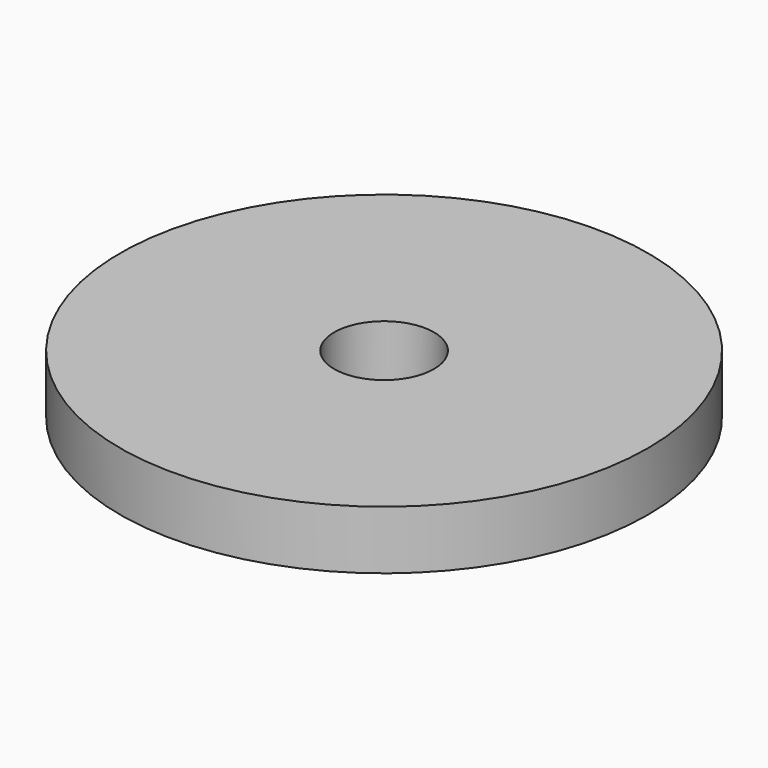
from build123d import *

# Parameters (mm, degrees)
CYLINDER007_R     = 1.7
CYLINDER007_DEPTH = 2
CYLINDER008_R     = 9
CYLINDER008_DEPTH = 2


with BuildPart() as cylinder007:
    # Cylinder007 → Cylinder007 (new body)
    with BuildSketch(Plane.XY):
        Circle(CYLINDER007_R)
    extrude(amount=CYLINDER007_DEPTH)


with BuildPart() as washer:
    # Cylinder008 → Cylinder008 (new body)
    with BuildSketch(Plane.XY):
        Circle(CYLINDER008_R)
    extrude(amount=CYLINDER008_DEPTH)

    # Cut005: cut Cylinder007
    add(cylinder007.part, mode=Mode.SUBTRACT)


solid = washer.part
